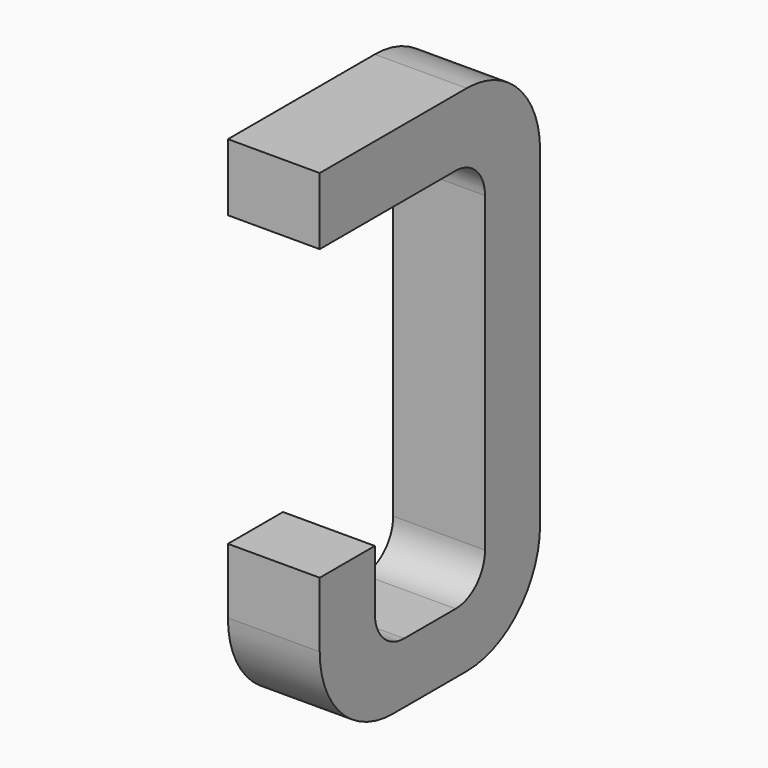
from build123d import *

# Parameters (mm, degrees)
BOX084_W     = 0.5
BOX084_H     = 1.5
BOX084_DEPTH = 2.795
FILLET216_R  = 0.5
FILLET221_R  = 0.5
FILLET212_R  = 0.5
BOX066_W     = 0.75
BOX066_H     = 2.1
BOX066_DEPTH = 1
FILLET209_R  = 0.2
FILLET228_R  = 0.2
FILLET220_R  = 0.2
FILLET201_R  = 0.2
BOX089_W     = 1
BOX089_H     = 1.575
BOX089_DEPTH = 3


with BuildPart() as part:
    # Box084 → Box084 (join)
    with BuildSketch(Plane(origin=(-0.25, 11.125, 0), x_dir=(1, 0, 0), z_dir=(0, 0, 1))):
        with Locations((0.25, 0.75)):
            Rectangle(BOX084_W, BOX084_H)
    extrude(amount=BOX084_DEPTH)

    # Fillet216
    fillet216_edges = [part.edges().sort_by_distance(p)[0] for p in [
        (0, 12.625, 0),
    ]]
    fillet(fillet216_edges, radius=FILLET216_R)

    # Fillet221
    fillet221_edges = [part.edges().sort_by_distance(p)[0] for p in [
        (0, 12.625, 2.795),
    ]]
    fillet(fillet221_edges, radius=FILLET221_R)

    # Fillet212
    fillet212_edges = [part.edges().sort_by_distance(p)[0] for p in [
        (0, 11.125, 0),
    ]]
    fillet(fillet212_edges, radius=FILLET212_R)

    # Box066 → Box066 (cut)
    with BuildSketch(Plane(origin=(-0.5, 11.5, 0.33), x_dir=(0, 1, 0), z_dir=(1, 0, 0))):
        with Locations((0.375, 1.05)):
            Rectangle(BOX066_W, BOX066_H)
    extrude(amount=BOX066_DEPTH, mode=Mode.SUBTRACT)

    # Fillet209
    fillet209_edges = [part.edges().sort_by_distance(p)[0] for p in [
        (0, 11.5, 0.33),
    ]]
    fillet(fillet209_edges, radius=FILLET209_R)

    # Fillet228
    fillet228_edges = [part.edges().sort_by_distance(p)[0] for p in [
        (0, 12.25, 0.33),
    ]]
    fillet(fillet228_edges, radius=FILLET228_R)

    # Fillet220
    fillet220_edges = [part.edges().sort_by_distance(p)[0] for p in [
        (0, 11.5, 2.43),
    ]]
    fillet(fillet220_edges, radius=FILLET220_R)

    # Fillet201
    fillet201_edges = [part.edges().sort_by_distance(p)[0] for p in [
        (0, 12.25, 2.43),
    ]]
    fillet(fillet201_edges, radius=FILLET201_R)

    # Box089 → Box089 (cut)
    with BuildSketch(Plane(origin=(-1, 11, 0.855), x_dir=(0, 1, 0), z_dir=(1, 0, 0))):
        with Locations((0.5, 0.7875)):
            Rectangle(BOX089_W, BOX089_H)
    extrude(amount=BOX089_DEPTH, mode=Mode.SUBTRACT)


with BuildPart() as part_1:
    # Body031 placement: moved
    add(part.part.moved(Location((-8.89, 0, 0))))


solid = part_1.part
